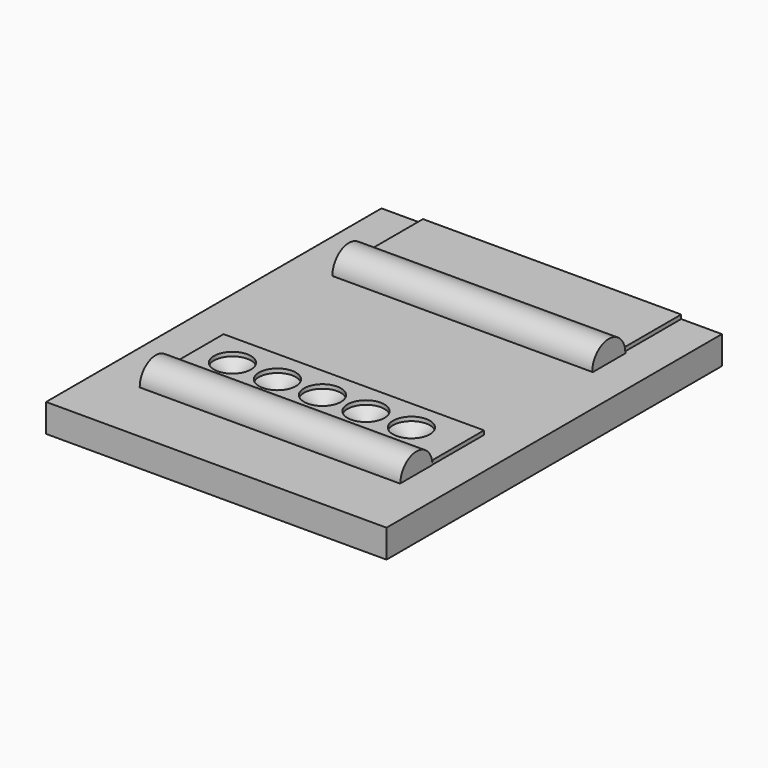
from build123d import *

# Parameters (mm, degrees)
F0_W     = 107.4788756669
F0_H     = 132.3667764664
F0_W_2   = 82.2222568095
F0_H_2   = 12.9048414528
F0_H_3   = 13.0891911685
F1_DEPTH = 8.89
F2_R     = 6.5365620237
F3_DEPTH = 82.042
F4_R     = 6.3176265204
F5_DEPTH = 82.296
F6_W     = 81.5332569182
F6_H     = 22.6756446064
F6_W_2   = 82.2222568095
F6_H_2   = 20.3202562407
F7_DEPTH = 1.27
F9_D     = 11.6586
F9_DEPTH = 1.27
F9_TIP   = 3.5025968065


with BuildPart() as f1:
    # F0 (on Top) → F1 (new body)
    with BuildSketch(Plane.XY):
        with Locations((1.2904834002, -0.8295997977)):
            Rectangle(F0_W, F0_H)
        with Locations((1.7513688654, -40.0971788913)):
            Rectangle(F0_W_2, F0_H_2, mode=Mode.SUBTRACT)
        with Locations((1.7513688654, 36.1335482448)):
            Rectangle(F0_W_2, F0_H_3, mode=Mode.SUBTRACT)
    extrude(amount=F1_DEPTH)

    # F2 (on face) → F3 (join)
    with BuildSketch(Plane.YZ.offset(-39.3597595394)):
        with Locations((36.1335482448, 8.89)):
            Circle(F2_R)
    extrude(amount=F3_DEPTH)

    # F4 (on face) → F5 (join)
    with BuildSketch(Plane.YZ.offset(-39.3597595394)):
        with Locations((-40.0971788913, 8.89)):
            Circle(F4_R)
    extrude(amount=F5_DEPTH)

    # F6 (on face) → F7 (join)
    with BuildSketch(Plane.XY.offset(8.89)):
        with Locations((1.4068689197, 54.0159661323)):
            Rectangle(F6_W, F6_H)
        with Locations((1.7513688654, -23.4846300445)):
            Rectangle(F6_W_2, F6_H_2)
    extrude(amount=F7_DEPTH)

    # F9
    with Locations(Plane.XY.offset(10.16)):
        with Locations((-13.9187742025, -23.8723475486), (0, -23.5024150461), (13.735441491, -23.5012937337), (27.9312729836, -23.3157351613), (-28.114663437, -23.8734837621)):
            Hole(F9_D / 2, depth=F9_DEPTH)
            with Locations((0, 0, -(F9_DEPTH + F9_TIP / 2))):  # 118° drill point
                Cone(0, F9_D / 2, F9_TIP, mode=Mode.SUBTRACT)


solid = f1.part
